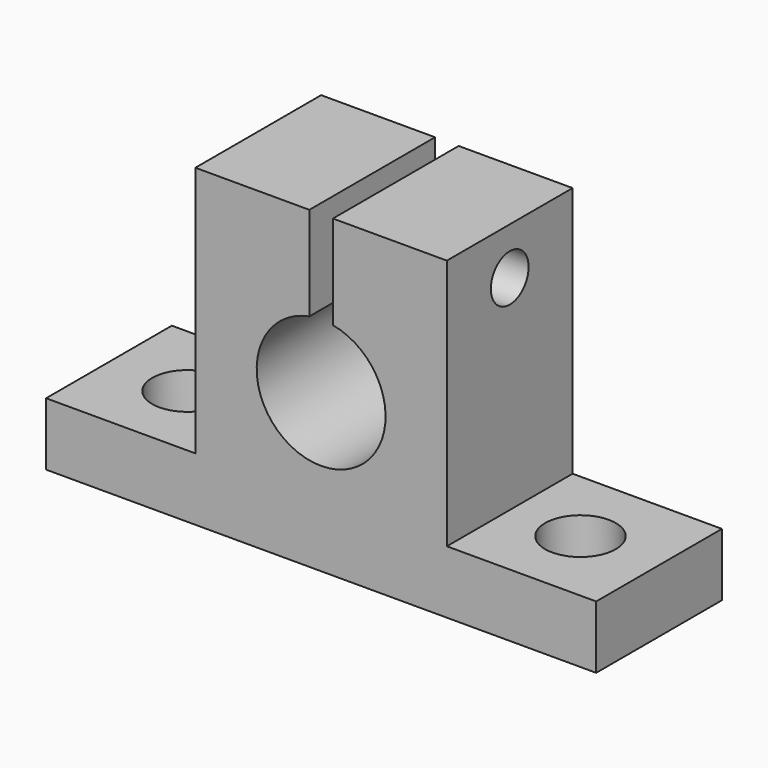
from build123d import *

# Parameters (mm, degrees)
F1_DEPTH = 10
F3_D     = 4.5
F5_D     = 3


with BuildPart() as f1:
    # F0 (on Front) → F1 (new body)
    with BuildSketch(Plane.XZ):
        with BuildLine():
            Line((-17.5, 0), (-8, 0))
            Line((-8, 0), (8, 0))
            Line((8, 0), (17.5, 0))
            Line((17.5, 0), (17.5, 4))
            Line((17.5, 4), (8, 4))
            Line((8, 4), (8, 20))
            Line((8, 20), (0.75, 20))
            Line((0.75, 20), (0.75, 14.030819))
            ThreePointArc((0.75, 14.030819), (0, 5.9), (-0.75, 14.030819))
            Line((-0.75, 14.030819), (-0.75, 20))
            Line((-0.75, 20), (-8, 20))
            Line((-8, 20), (-8, 4))
            Line((-8, 4), (-17.5, 4))
            Line((-17.5, 4), (-17.5, 0))
        make_face()
    extrude(amount=F1_DEPTH)

    # F3 (through all)
    with Locations(Plane.XY.offset(4)):
        with Locations((-12.5, -5), (12.5, -5)):
            Hole(F3_D / 2)

    # F5 (through all)
    with Locations(Plane(origin=(-8, 0, 0), x_dir=(0, -1, 0), z_dir=(-1, 0, 0))):
        with Locations((5, 17)):
            Hole(F5_D / 2)


solid = f1.part
